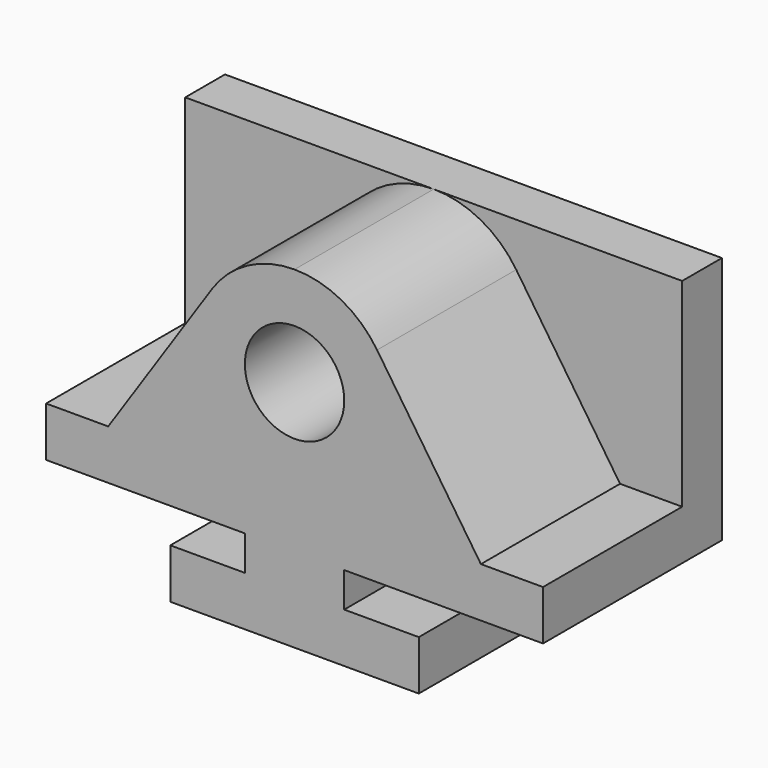
from build123d import *

# Parameters (mm, degrees)
F1_DEPTH = 44.45
F2_W     = 12.7
F2_H     = 63.5
F3_DEPTH = 158.75
F4_W     = 63.5
F4_H     = 63.5
F5_DEPTH = 50.8
F6_W     = 12.7
F6_H     = 63.5
F7_DEPTH = 31.75
F8_R     = 12.7
F9_DEPTH = 25.4


with BuildPart() as f1:
    # F0 (on Front) → F1 (new body)
    with BuildSketch(Plane.XZ):
        with BuildLine():
            ThreePointArc((44.45, 59.69), (40.730256, 68.670256), (31.75, 72.39))
            ThreePointArc((31.75, 72.39), (22.769744, 50.709744), (44.45, 59.69))
        make_face()
        with BuildLine():
            Line((0, 12.7), (0, 0))
            Line((0, 0), (63.5, 0))
            Line((63.5, 0), (63.5, 12.7))
            Line((63.5, 12.7), (44.45, 12.7))
            Line((44.45, 12.7), (44.45, 21.59))
            Line((44.45, 21.59), (95.25, 21.59))
            Line((95.25, 21.59), (95.25, 34.29))
            Line((95.25, 34.29), (79.375, 34.29))
            Line((79.375, 34.29), (52.843426, 73.840173))
            ThreePointArc((52.843426, 73.840173), (43.702941, 82.101765), (31.75, 85.09))
            ThreePointArc((31.75, 85.09), (19.797059, 82.101765), (10.656574, 73.840173))
            Line((10.656574, 73.840173), (-15.875, 34.29))
            Line((-15.875, 34.29), (-31.75, 34.29))
            Line((-31.75, 34.29), (-31.75, 21.59))
            Line((-31.75, 21.59), (19.05, 21.59))
            Line((19.05, 21.59), (19.05, 12.7))
            Line((19.05, 12.7), (0, 12.7))
        make_face()
        with BuildLine():
            ThreePointArc((44.45, 59.69), (22.769744, 50.709744), (31.75, 72.39))
            ThreePointArc((31.75, 72.39), (40.730256, 68.670256), (44.45, 59.69))
        make_face(mode=Mode.SUBTRACT)
    extrude(amount=F1_DEPTH)

    # F2 (on Right) → F3 (join)
    with BuildSketch(Plane.YZ):
        with Locations((6.35, 53.34)):
            Rectangle(F2_W, F2_H)
    extrude(amount=F3_DEPTH)

    # F4 (on face) → F5 (cut)
    with BuildSketch(Plane.XZ):
        with Locations((127, 53.34)):
            Rectangle(F4_W, F4_H)
    extrude(amount=-F5_DEPTH, mode=Mode.SUBTRACT)

    # F6 (on face) → F7 (join)
    with BuildSketch(Plane(origin=(0, 0, 0), x_dir=(0, -1, 0), z_dir=(-1, 0, 0))):
        with Locations((-6.35, 53.34)):
            Rectangle(F6_W, F6_H)
    extrude(amount=F7_DEPTH)

    # F8 (on face) → F9 (cut)
    with BuildSketch(Plane.XZ):
        with Locations((31.75, 59.69)):
            Circle(F8_R)
    extrude(amount=-F9_DEPTH, mode=Mode.SUBTRACT)


solid = f1.part
